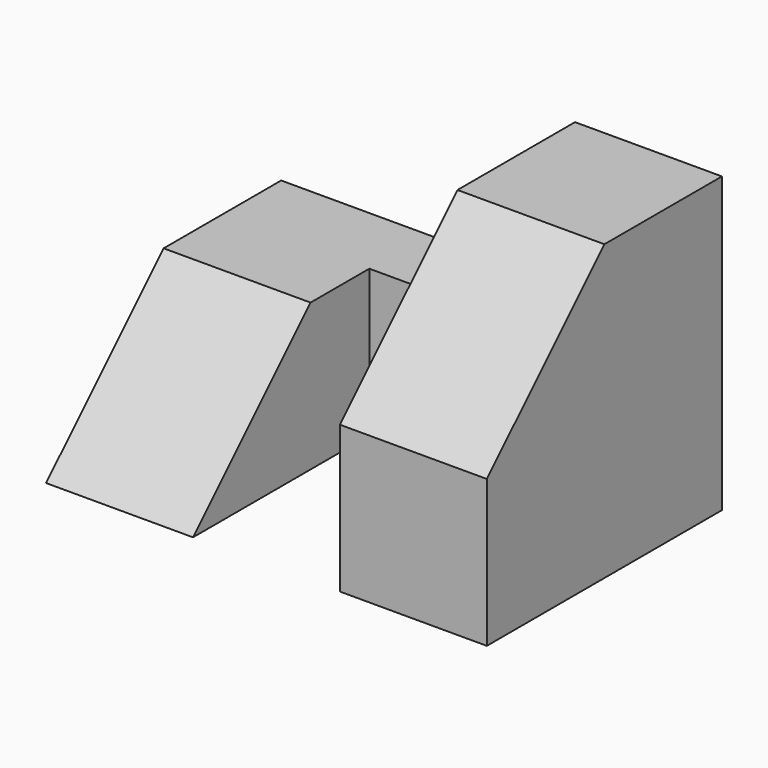
from build123d import *

# Parameters (mm, degrees)
F0_W     = 25.4
F0_H     = 25.4
F1_DEPTH = 38.1
F2_W     = 12.7
F2_H     = 19.05
F3_DEPTH = 25.401
F5_DEPTH = 38.101
F6_W     = 25.4
F6_H     = 12.7
F7_DEPTH = 25.401
F9_DEPTH = 12.7


with BuildPart() as f1:
    # F0 (on Right) → F1 (new body)
    with BuildSketch(Plane.YZ):
        with Locations((12.7, 12.7)):
            Rectangle(F0_W, F0_H)
    extrude(amount=-F1_DEPTH)

    # F2 (on face) → F3 (cut, through all)
    with BuildSketch(Plane(origin=(0, 0, 0), x_dir=(1, 0, 0), z_dir=(0, 0, -1))):
        with Locations((-19.05, -9.525)):
            Rectangle(F2_W, F2_H)
    extrude(amount=-F3_DEPTH, mode=Mode.SUBTRACT)

    # F4 (on face) → F5 (cut, through all)
    with BuildSketch(Plane.YZ):
        Polygon((0, 25.4), (0, 12.7), (12.7, 25.4), align=None)
    extrude(amount=-F5_DEPTH, mode=Mode.SUBTRACT)

    # F6 (on face) → F7 (cut, through all)
    with BuildSketch(Plane(origin=(0, 25.4, 0), x_dir=(-1, 0, 0), z_dir=(0, 1, 0))):
        with Locations((25.4, 19.05)):
            Rectangle(F6_W, F6_H)
    extrude(amount=-F7_DEPTH, mode=Mode.SUBTRACT)

    # F8 (on face) → F9 (cut)
    with BuildSketch(Plane(origin=(-38.1, 0, 0), x_dir=(0, -1, 0), z_dir=(-1, 0, 0))):
        Polygon((-12.7, 12.7), (0, 0), (0, 12.7), align=None)
    extrude(amount=-F9_DEPTH, mode=Mode.SUBTRACT)


solid = f1.part
